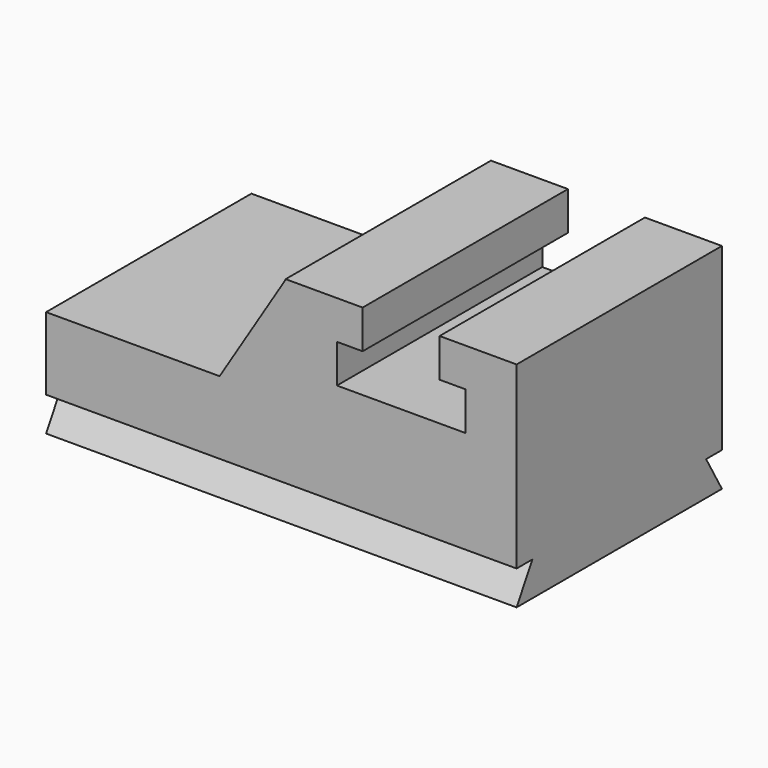
from build123d import *

# Parameters (mm, degrees)
F0_W      = 1030.319246
F0_H      = 1524
F1_DEPTH  = 635
F0_W_2    = 457.2
F2_DEPTH  = 1270
F0_W_3    = 392.080754
F3_DEPTH  = 635
F5_DEPTH  = 1524
F8_DEPTH  = 2794.001
F9_DEPTH  = 2794.001
F11_DEPTH = 1524.001


with BuildPart() as f1:
    # F0 (on Top) → F1 (new body)
    with BuildSketch(Plane.XY):
        with Locations((-907.240377, 142.241771)):
            Rectangle(F0_W, F0_H)
    extrude(amount=F1_DEPTH)


with BuildPart() as f2:
    # F0 (on Top) → F2 (new body)
    with BuildSketch(Plane.XY):
        with Locations((228.6, 142.241771)):
            Rectangle(F0_W_2, F0_H)
        with Locations((685.8, 142.241771)):
            Rectangle(F0_W_2, F0_H)
        with Locations((1143, 142.241771)):
            Rectangle(F0_W_2, F0_H)
    extrude(amount=F2_DEPTH)


with BuildPart() as f3:
    # F0 (on Top) → F3 (new body)
    with BuildSketch(Plane.XY):
        with Locations((-196.040377, 142.241771)):
            Rectangle(F0_W_3, F0_H)
    extrude(amount=F3_DEPTH)


with BuildPart() as f5:
    # F4 (on face) → F5 (new body)
    with BuildSketch(Plane.XZ.offset(619.758229)):
        Polygon((0, 1266.978741), (-392.080754, 635), (0, 635), align=None)
    extrude(amount=-F5_DEPTH)


with BuildPart() as f2_1:
    add(f2.part)

    # F7: union F5, F3, F1
    add(f5.part)
    add(f3.part)
    add(f1.part)

    # F6 (on face) → F8 (cut, through all)
    with BuildSketch(Plane(origin=(-1422.4, 0, 0), x_dir=(0, -1, 0), z_dir=(-1, 0, 0))):
        Polygon((502.440655, 203.2), (619.758229, 0), (619.758229, 203.2), align=None)
    extrude(amount=-F8_DEPTH, mode=Mode.SUBTRACT)

    # F6 (on face) → F9 (cut, through all)
    with BuildSketch(Plane(origin=(-1422.4, 0, 0), x_dir=(0, -1, 0), z_dir=(-1, 0, 0))):
        Polygon((-904.241771, 203.2), (-904.241771, 0), (-786.924196, 203.2), align=None)
    extrude(amount=-F9_DEPTH, mode=Mode.SUBTRACT)

    # F10 (on face) → F11 (cut, through all)
    with BuildSketch(Plane.XZ.offset(619.758229)):
        Polygon((914.4, 1041.4), (914.4, 1270), (457.2, 1270), (457.2, 1041.4), (304.8, 1041.4), (304.8, 812.8), (1066.8, 812.8), (1066.8, 1041.4), align=None)
    extrude(amount=-F11_DEPTH, mode=Mode.SUBTRACT)


solid = f2_1.part
